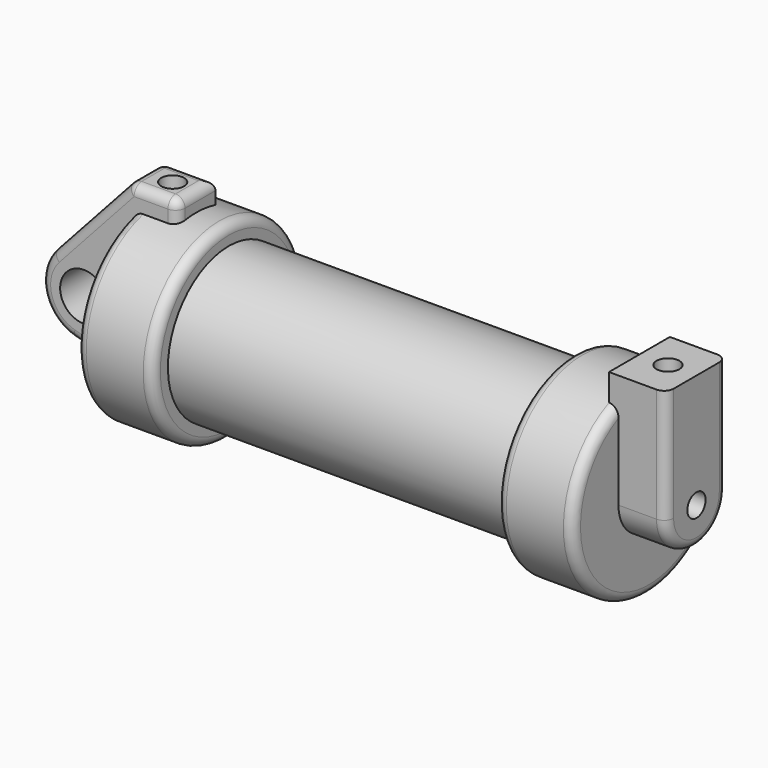
from build123d import *

# Parameters (mm, degrees)
F0_W          = 5.842
F0_H          = 12.7
F0_R          = 3.175
F3_DEPTH      = 3.175
F4_R          = 1.524
F5_DEPTH      = 6.35
F5_DEPTH_BACK = 1.27
F6_R          = 1.524
F7_DEPTH      = 10.414
F8_R          = 1.524
F9_DEPTH      = 17.78
F10_R         = 1.27
F11_R         = 1.27
F12_R         = 1.27


with BuildPart() as f1:
    # F0 (on Front) → F1 (revolve)
    with BuildSketch(Plane.XZ):
        Polygon((5.842, 12.7), (5.842, 0), (66.294, 0), (66.294, 12.7), (56.134, 12.7), (56.134, 10.16), (10.16, 10.16), (10.16, 12.7), align=None)
    revolve(axis=Axis((33.147, 0, 0), (-1, 0, 0)))

    # F0 (on Front) → F2 (revolve)
    with BuildSketch(Plane.XZ):
        with Locations((2.921, 6.35)):
            Rectangle(F0_W, F0_H)
    revolve(axis=Axis((33.147, 0, 0), (-1, 0, 0)))

    # F0 (on Front) → F3 (join, symmetric)
    with BuildSketch(Plane.XZ):
        with BuildLine():
            Line((-0.9398, 0), (0, 0))
            Line((0, 0), (0, 12.7))
            Line((0, 12.7), (5.842, 12.7))
            Line((5.842, 12.7), (5.842, 15.24))
            Line((5.842, 15.24), (-0.508, 15.24))
            Line((-0.508, 15.24), (-10.8806298187, 3.8475430269))
            ThreePointArc((-10.8806298187, 3.8475430269), (-4.5919612295, 5.3297205562), (-0.9398, 0))
        make_face()
        with BuildLine():
            ThreePointArc((-8.1826630726, -5.5069827884), (-3.1957909266, -4.5493385486), (-0.9398, 0))
            ThreePointArc((-0.9398, 0), (-4.5919612295, 5.3297205562), (-10.8806298187, 3.8475430269))
            ThreePointArc((-10.8806298187, 3.8475430269), (-12.1459778134, -1.5837270034), (-8.1826630726, -5.5069827884))
        make_face()
        with Locations((-6.6548, 0)):
            Circle(F0_R, mode=Mode.SUBTRACT)
        with BuildLine():
            Line((5.842, 0), (0, 0))
            Line((0, 0), (-0.9398, 0))
            ThreePointArc((-0.9398, 0), (-3.1957909266, -4.5493385486), (-8.1826630726, -5.5069827884))
            Line((-8.1826630726, -5.5069827884), (5.842, -9.398))
            Line((5.842, -9.398), (5.842, 0))
        make_face()
        with Locations((2.921, 6.35)):
            Rectangle(F0_W, F0_H)
    extrude(amount=F3_DEPTH, both=True)

    # F4 (on face) → F5 (join, two sides)
    with BuildSketch(Plane.YZ.offset(66.294)) as f5_sk:
        with BuildLine():
            ThreePointArc((-5.08, 0), (0, -5.08), (5.08, 0))
            ThreePointArc((5.08, 0), (0, 5.08), (-5.08, 0))
        make_face()
        Circle(F4_R, mode=Mode.SUBTRACT)
        with BuildLine():
            ThreePointArc((-5.08, 0), (0, 5.08), (5.08, 0))
            Line((5.08, 0), (5.08, 11.6397422652))
            ThreePointArc((5.08, 11.6397422652), (0, 12.7), (-5.08, 11.6397422652))
            Line((-5.08, 11.6397422652), (-5.08, 0))
        make_face()
        with BuildLine():
            ThreePointArc((-5.08, 11.6397422652), (0, 12.7), (5.08, 11.6397422652))
            Line((5.08, 11.6397422652), (5.08, 15.24))
            Line((5.08, 15.24), (-5.08, 15.24))
            Line((-5.08, 15.24), (-5.08, 11.6397422652))
        make_face()
    extrude(amount=F5_DEPTH)
    extrude(f5_sk.sketch, amount=-F5_DEPTH_BACK)

    # F6 (on face) → F7 (cut)
    with BuildSketch(Plane.XY.offset(15.24)):
        with Locations((68.834, 0)):
            Circle(F6_R)
    extrude(amount=-F7_DEPTH, mode=Mode.SUBTRACT)

    # F8 (on face) → F9 (cut)
    with BuildSketch(Plane.XY.offset(15.24)):
        with Locations((2.667, 0)):
            Circle(F8_R)
    extrude(amount=-F9_DEPTH, mode=Mode.SUBTRACT)

    # F10
    f10_edges = [f1.edges().sort_by_distance(p)[0] for p in [
        (66.294, 0, -12.7),
        (56.134, 0, -12.7),
        (10.16, 0, -12.7),
        (0, 0, -12.7),
    ]]
    fillet(f10_edges, radius=F10_R)

    # F11
    f11_edges = [f1.edges().sort_by_distance(p)[0] for p in [
        (72.644, -5.08, 7.62),
    ]]
    fillet(f11_edges, radius=F11_R)

    # F12
    f12_edges = [f1.edges().sort_by_distance(p)[0] for p in [
        (-12.145978, -3.175, -1.583727),
        (-5.694315, -3.175, 9.543772),
        (2.667, -3.175, 15.24),
        (5.842, -3.175, 13.768361),
        (-4.091332, -3.175, -6.642086),
        (-12.145978, 3.175, -1.583727),
        (-5.694315, 3.175, 9.543772),
        (2.667, 3.175, 15.24),
        (5.842, 0, 15.24),
        (-0.508, 0, 15.24),
        (-4.091332, 3.175, -6.642086),
    ]]
    fillet(f12_edges, radius=F12_R)


solid = f1.part
